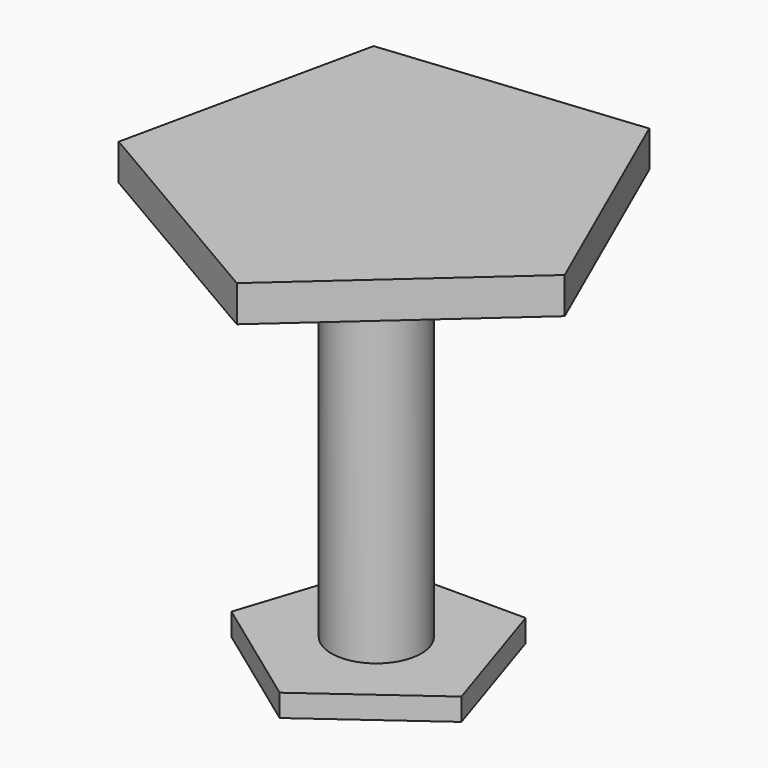
from build123d import *

# Parameters (mm, degrees)
F1_DEPTH = 9.906
F2_R     = 12.300458
F3_DEPTH = 101.6
F5_DEPTH = 6.096


with BuildPart() as f1:
    # F0 (on Top) → F1 (new body)
    with BuildSketch(Plane.XY):
        Polygon((-87.349732, 14.484886), (-157.059993, 7.486077), (-171.945385, -60.975071), (-111.434803, -96.287578), (-59.151814, -49.65076), align=None)
    extrude(amount=F1_DEPTH)

    # F2 (on face) → F3 (join)
    with BuildSketch(Plane(origin=(0, 0, 0), x_dir=(1, 0, 0), z_dir=(0, 0, -1))):
        with Locations((-119.881563, 38.058758)):
            Circle(F2_R)
    extrude(amount=F3_DEPTH)

    # F4 (on face) → F5 (join)
    with BuildSketch(Plane(origin=(0, 0, -101.6), x_dir=(1, 0, 0), z_dir=(0, 0, -1))):
        Polygon((-139.301867, 11.329003), (-100.461259, 11.329003), (-88.458851, 48.268616), (-119.881563, 71.098552), (-151.304275, 48.268616), align=None)
    extrude(amount=F5_DEPTH)


solid = f1.part
